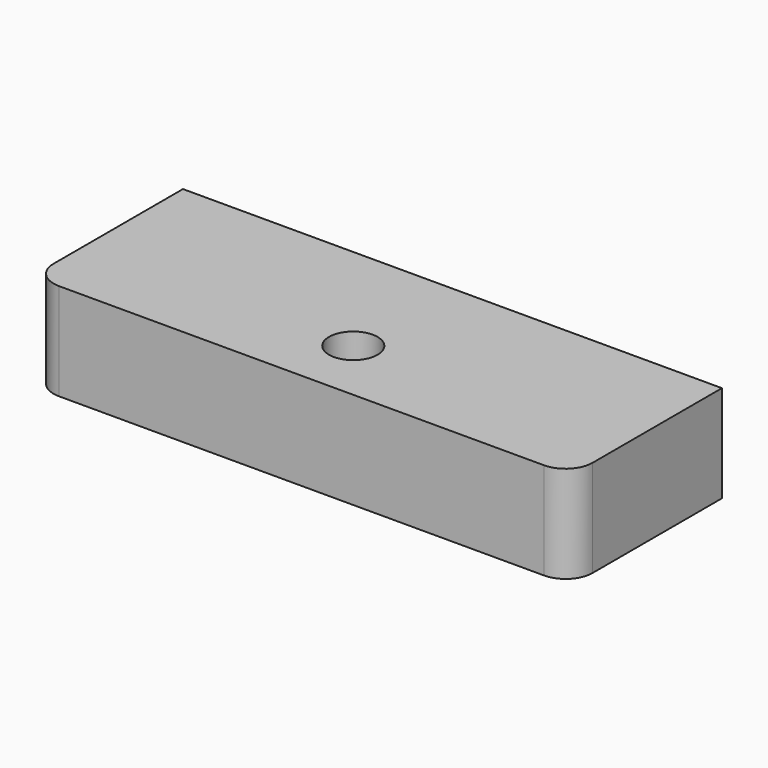
from build123d import *

# Parameters (mm, degrees)
F0_W     = 100
F0_H     = 35
F0_R     = 11
F0_R_2   = 4.5
F1_DEPTH = 18
F2_DEPTH = 10
F3_R     = 5


with BuildPart() as f1:
    # F0 (on Top) → F1 (new body)
    with BuildSketch(Plane.XY):
        with Locations((-16.250001, 14.782052)):
            Rectangle(F0_W, F0_H)
        with Locations((-16.250001, 9.282052)):
            Circle(F0_R, mode=Mode.SUBTRACT)
        with Locations((-16.250001, 9.282052)):
            Circle(F0_R)
        with Locations((-16.250001, 9.282052)):
            Circle(F0_R_2, mode=Mode.SUBTRACT)
    extrude(amount=F1_DEPTH)

    # F0 (on Top) → F2 (cut)
    with BuildSketch(Plane.XY):
        with Locations((-16.250001, 9.282052)):
            Circle(F0_R)
        with Locations((-16.250001, 9.282052)):
            Circle(F0_R_2, mode=Mode.SUBTRACT)
    extrude(amount=F2_DEPTH, mode=Mode.SUBTRACT)

    # F3
    f3_edges = [f1.edges().sort_by_distance(p)[0] for p in [
        (33.749999, -2.717948, 9),
        (-66.250001, -2.717948, 9),
    ]]
    fillet(f3_edges, radius=F3_R)


solid = f1.part
